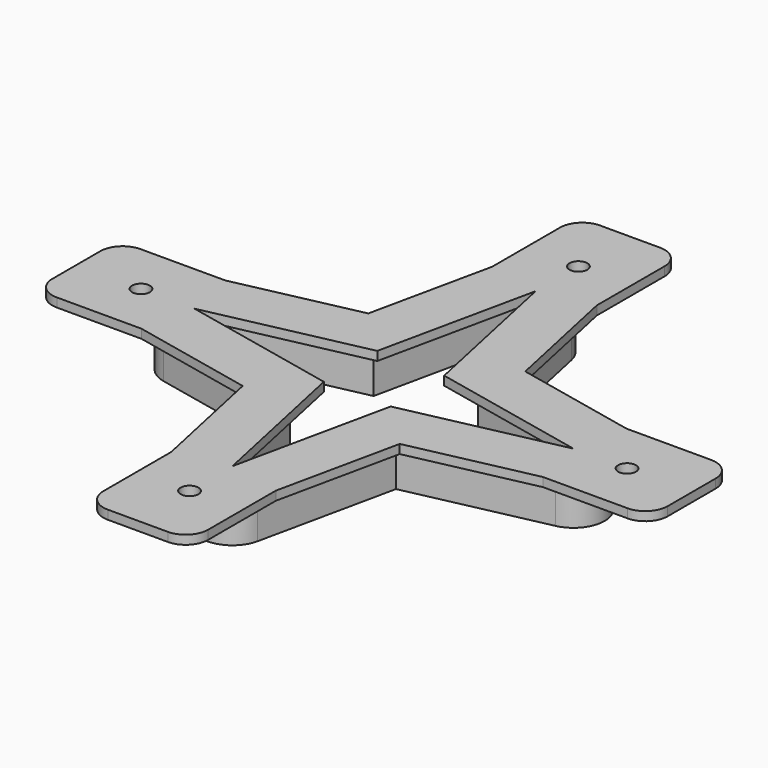
from build123d import *

# Parameters (mm, degrees)
PAD_DEPTH       = 2
PAD001_DEPTH    = 2
PAD002_DEPTH    = 12
POCKET_DEPTH    = 2
PAD003_DEPTH    = 2
POCKET001_DEPTH = 2
POCKET002_DEPTH = 2
SKETCH004_W     = 23.47
SKETCH004_H     = 24
SKETCH004_W_2   = 24
SKETCH004_H_2   = 23.47
PAD004_DEPTH    = 2
FILLET_R        = 5
FILLET001_R     = 5
FILLET002_R     = 5
SKETCH005_R     = 2
POCKET003_DEPTH = 5


with BuildPart() as part:
    # Sketch → Pad (new body)
    with BuildSketch(Plane.XY):
        with BuildLine():
            Line((-4.211124, 19.211124), (2.610988, 51.047645))
            ThreePointArc((12.389012, 51.047645), (7.5, 55), (2.610988, 51.047645))
            Line((12.389012, 51.047645), (19.211124, 19.211124))
            Line((51.047645, 12.389012), (19.211124, 19.211124))
            ThreePointArc((51.047645, 2.610988), (55, 7.5), (51.047645, 12.389012))
            Line((19.211124, -4.211124), (51.047645, 2.610988))
            Line((12.389012, -36.047645), (19.211124, -4.211124))
            ThreePointArc((2.610988, -36.047645), (7.5, -40), (12.389012, -36.047645))
            Line((-4.211124, -4.211124), (2.610988, -36.047645))
            Line((-4.211124, -4.211124), (-36.047645, 2.610988))
            ThreePointArc((-36.047645, 12.389012), (-40, 7.5), (-36.047645, 2.610988))
            Line((-36.047645, 12.389012), (-4.211124, 19.211124))
        make_face()
        Polygon((15, 0), (50, 7.5), (15, 15), (7.5, 50), (0, 15), (-35, 7.5), (0, 0), (7.5, -35), align=None, mode=Mode.SUBTRACT)
    extrude(amount=PAD_DEPTH)

    # Sketch002 (on Face22 of Pad) → Pad001 (join)
    with BuildSketch(Plane.XY.offset(2)):
        with BuildLine():
            Line((-5.895573, 20.895573), (0.655383, 51.466704))
            ThreePointArc((14.344617, 51.466704), (7.5, 57), (0.655383, 51.466704))
            Line((14.344617, 51.466704), (20.895573, 20.895573))
            Line((51.466704, 14.344617), (20.895573, 20.895573))
            ThreePointArc((51.466704, 0.655383), (57, 7.5), (51.466704, 14.344617))
            Line((20.895573, -5.895573), (51.466704, 0.655383))
            Line((20.895573, -5.895573), (14.344617, -36.466704))
            ThreePointArc((0.655383, -36.466704), (7.5, -42), (14.344617, -36.466704))
            Line((0.655383, -36.466704), (-5.895573, -5.895573))
            Line((-5.895573, -5.895573), (-36.466704, 0.655383))
            ThreePointArc((-36.466704, 14.344617), (-42, 7.5), (-36.466704, 0.655383))
            Line((-5.895573, 20.895573), (-36.466704, 14.344617))
        make_face()
        Polygon((7.5, 50), (15, 15), (50, 7.5), (15, 0), (7.5, -35), (0, 0), (-35, 7.5), (0, 15), align=None, mode=Mode.SUBTRACT)
    extrude(amount=PAD001_DEPTH)

    # Pad001 Face5 → Pad002 (add)
    with BuildSketch(Plane(origin=(7.5, 7.5, 2), x_dir=(0, -1, 0), z_dir=(0, 0, -1))):
        with BuildLine():
            Line((-13.395573, 13.395573), (-43.966704, 6.844617))
            ThreePointArc((-43.966704, 6.844617), (-49.5, 0), (-43.966704, -6.844617))
            Line((-43.966704, -6.844617), (-13.395573, -13.395573))
            Line((-13.395573, -13.395573), (-6.844617, -43.966704))
            ThreePointArc((-6.844617, -43.966704), (0, -49.5), (6.844617, -43.966704))
            Line((6.844617, -43.966704), (13.395573, -13.395573))
            Line((13.395573, -13.395573), (43.966704, -6.844617))
            ThreePointArc((43.966704, -6.844617), (49.5, 0), (43.966704, 6.844617))
            Line((43.966704, 6.844617), (13.395573, 13.395573))
            Line((13.395573, 13.395573), (6.844617, 43.966704))
            ThreePointArc((6.844617, 43.966704), (0, 49.5), (-6.844617, 43.966704))
            Line((-6.844617, 43.966704), (-13.395573, 13.395573))
        make_face()
        with BuildLine():
            Line((-11.711124, 11.711124), (-4.889012, 43.547645))
            ThreePointArc((-4.889012, 43.547645), (0, 47.5), (4.889012, 43.547645))
            Line((4.889012, 43.547645), (11.711124, 11.711124))
            Line((11.711124, 11.711124), (43.547645, 4.889012))
            ThreePointArc((43.547645, 4.889012), (47.5, 0), (43.547645, -4.889012))
            Line((43.547645, -4.889012), (11.711124, -11.711124))
            Line((11.711124, -11.711124), (4.889012, -43.547645))
            ThreePointArc((4.889012, -43.547645), (0, -47.5), (-4.889012, -43.547645))
            Line((-4.889012, -43.547645), (-11.711124, -11.711124))
            Line((-11.711124, -11.711124), (-43.547645, -4.889012))
            ThreePointArc((-43.547645, -4.889012), (-47.5, 0), (-43.547645, 4.889012))
            Line((-43.547645, 4.889012), (-11.711124, 11.711124))
        make_face(mode=Mode.SUBTRACT)
    extrude(amount=PAD002_DEPTH)

    # Pad002 Face23 → Pocket (cut)
    with BuildSketch(Plane(origin=(7.5, 7.5, 4), x_dir=(0, 1, 0), z_dir=(0, 0, 1))):
        with BuildLine():
            Line((43.966704, 6.844617), (13.395573, 13.395573))
            Line((13.395573, 13.395573), (6.844617, 43.966704))
            ThreePointArc((6.844617, 43.966704), (0, 49.5), (-6.844617, 43.966704))
            Line((-6.844617, 43.966704), (-13.395573, 13.395573))
            Line((-13.395573, 13.395573), (-43.966704, 6.844617))
            ThreePointArc((-43.966704, 6.844617), (-49.5, 0), (-43.966704, -6.844617))
            Line((-43.966704, -6.844617), (-13.395573, -13.395573))
            Line((-13.395573, -13.395573), (-6.844617, -43.966704))
            ThreePointArc((-6.844617, -43.966704), (0, -49.5), (6.844617, -43.966704))
            Line((6.844617, -43.966704), (13.395573, -13.395573))
            Line((13.395573, -13.395573), (43.966704, -6.844617))
            ThreePointArc((43.966704, -6.844617), (49.5, 0), (43.966704, 6.844617))
        make_face()
        Polygon((42.5, 0), (7.5, -7.5), (0, -42.5), (-7.5, -7.5), (-42.5, 0), (-7.5, 7.5), (0, 42.5), (7.5, 7.5), align=None, mode=Mode.SUBTRACT)
    extrude(amount=-POCKET_DEPTH, mode=Mode.SUBTRACT)

    # Sketch003 (on Face23 of Pocket) → Pad003 (join)
    with BuildSketch(Plane.XY.offset(2)):
        with BuildLine():
            Line((-10.106697, 25.106697), (-4.233629, 52.514349))
            ThreePointArc((19.233629, 52.514349), (7.5, 62), (-4.233629, 52.514349))
            Line((19.233629, 52.514349), (25.106697, 25.106697))
            Line((25.106697, 25.106697), (52.514349, 19.233629))
            ThreePointArc((52.514349, -4.233629), (62, 7.5), (52.514349, 19.233629))
            Line((52.514349, -4.233629), (25.106697, -10.106697))
            Line((25.106697, -10.106697), (19.233629, -37.514349))
            ThreePointArc((-4.233629, -37.514349), (7.5, -47), (19.233629, -37.514349))
            Line((-4.233629, -37.514349), (-10.106697, -10.106697))
            Line((-10.106697, -10.106697), (-37.514349, -4.233629))
            ThreePointArc((-37.514349, 19.233629), (-47, 7.5), (-37.514349, -4.233629))
            Line((-37.514349, 19.233629), (-10.106697, 25.106697))
        make_face()
        Polygon((7.5, 50), (15, 15), (50, 7.5), (15, 0), (7.5, -35), (0, 0), (-35, 7.5), (0, 15), align=None, mode=Mode.SUBTRACT)
    extrude(amount=PAD003_DEPTH)

    # Pad003 Face1 → Pocket001 (cut)
    with BuildSketch(Plane(origin=(7.5, 7.5, 0), x_dir=(0, -1, 0), z_dir=(0, 0, -1))):
        with BuildLine():
            Line((-11.711124, 11.711124), (-43.547645, 4.889012))
            ThreePointArc((-43.547645, 4.889012), (-47.5, 0), (-43.547645, -4.889012))
            Line((-43.547645, -4.889012), (-11.711124, -11.711124))
            Line((-11.711124, -11.711124), (-4.889012, -43.547645))
            ThreePointArc((-4.889012, -43.547645), (0, -47.5), (4.889012, -43.547645))
            Line((4.889012, -43.547645), (11.711124, -11.711124))
            Line((11.711124, -11.711124), (43.547645, -4.889012))
            ThreePointArc((43.547645, -4.889012), (47.5, 0), (43.547645, 4.889012))
            Line((43.547645, 4.889012), (11.711124, 11.711124))
            Line((11.711124, 11.711124), (4.889012, 43.547645))
            ThreePointArc((4.889012, 43.547645), (0, 47.5), (-4.889012, 43.547645))
            Line((-4.889012, 43.547645), (-11.711124, 11.711124))
        make_face()
        Polygon((7.5, 7.5), (42.5, 0), (7.5, -7.5), (0, -42.5), (-7.5, -7.5), (-42.5, 0), (-7.5, 7.5), (0, 42.5), align=None, mode=Mode.SUBTRACT)
    extrude(amount=-POCKET001_DEPTH, mode=Mode.SUBTRACT)

    # Pocket001 Face1 → Pocket002 (cut)
    with BuildSketch(Plane(origin=(7.5, 7.5, -10), x_dir=(0, -1, 0), z_dir=(0, 0, -1))):
        with BuildLine():
            Line((-13.395573, 13.395573), (-43.966704, 6.844617))
            ThreePointArc((-43.966704, 6.844617), (-49.5, 0), (-43.966704, -6.844617))
            Line((-43.966704, -6.844617), (-13.395573, -13.395573))
            Line((-13.395573, -13.395573), (-6.844617, -43.966704))
            ThreePointArc((-6.844617, -43.966704), (0, -49.5), (6.844617, -43.966704))
            Line((6.844617, -43.966704), (13.395573, -13.395573))
            Line((13.395573, -13.395573), (43.966704, -6.844617))
            ThreePointArc((43.966704, -6.844617), (49.5, 0), (43.966704, 6.844617))
            Line((43.966704, 6.844617), (13.395573, 13.395573))
            Line((13.395573, 13.395573), (6.844617, 43.966704))
            ThreePointArc((6.844617, 43.966704), (0, 49.5), (-6.844617, 43.966704))
            Line((-6.844617, 43.966704), (-13.395573, 13.395573))
        make_face()
        with BuildLine():
            Line((-11.711124, 11.711124), (-4.889012, 43.547645))
            ThreePointArc((-4.889012, 43.547645), (0, 47.5), (4.889012, 43.547645))
            Line((4.889012, 43.547645), (11.711124, 11.711124))
            Line((11.711124, 11.711124), (43.547645, 4.889012))
            ThreePointArc((43.547645, 4.889012), (47.5, 0), (43.547645, -4.889012))
            Line((43.547645, -4.889012), (11.711124, -11.711124))
            Line((11.711124, -11.711124), (4.889012, -43.547645))
            ThreePointArc((4.889012, -43.547645), (0, -47.5), (-4.889012, -43.547645))
            Line((-4.889012, -43.547645), (-11.711124, -11.711124))
            Line((-11.711124, -11.711124), (-43.547645, -4.889012))
            ThreePointArc((-43.547645, -4.889012), (-47.5, 0), (-43.547645, 4.889012))
            Line((-43.547645, 4.889012), (-11.711124, 11.711124))
        make_face(mode=Mode.SUBTRACT)
    extrude(amount=-POCKET002_DEPTH, mode=Mode.SUBTRACT)

    # Sketch004 (on Face5 of Pocket002) → Pad004 (join)
    with BuildSketch(Plane(origin=(0, 0, 2), x_dir=(1, 0, 0), z_dir=(0, 0, -1))):
        with Locations((7.501371, -64.514349)):
            Rectangle(SKETCH004_W, SKETCH004_H)
        with Locations((64.514349, -7.501371)):
            Rectangle(SKETCH004_W_2, SKETCH004_H_2)
        with Locations((7.501371, 49.514349)):
            Rectangle(SKETCH004_W, SKETCH004_H)
        with Locations((-49.514349, -7.501371)):
            Rectangle(SKETCH004_W_2, SKETCH004_H_2)
    extrude(amount=-PAD004_DEPTH)

    # Fillet
    fillet_edges = [part.edges().sort_by_distance(p)[0] for p in [
        (-61.514349, 19.236371, 3),
        (-61.514349, -4.233629, 3),
    ]]
    fillet(fillet_edges, radius=FILLET_R)

    # Fillet001
    fillet001_edges = [part.edges().sort_by_distance(p)[0] for p in [
        (-4.233629, -61.514349, 3),
        (19.236371, -61.514349, 3),
        (76.514349, -4.233629, 3),
        (76.514349, 19.236371, 3),
    ]]
    fillet(fillet001_edges, radius=FILLET001_R)

    # Fillet002
    fillet002_edges = [part.edges().sort_by_distance(p)[0] for p in [
        (-4.233629, 76.514349, 3),
        (19.236371, 76.514349, 3),
    ]]
    fillet(fillet002_edges, radius=FILLET002_R)

    # Sketch005 (on Face46 of Fillet002) → Pocket003 (cut)
    with BuildSketch(Plane.XY.offset(4)):
        with Locations((7.501371, 62.014349)):
            Circle(SKETCH005_R)
        with Locations((7.501371, -47.014349)):
            Circle(SKETCH005_R)
        with Locations((62.014349, 7.501371)):
            Circle(SKETCH005_R)
        with Locations((-47.014349, 7.501371)):
            Circle(SKETCH005_R)
    extrude(amount=-POCKET003_DEPTH, mode=Mode.SUBTRACT)


solid = part.part
